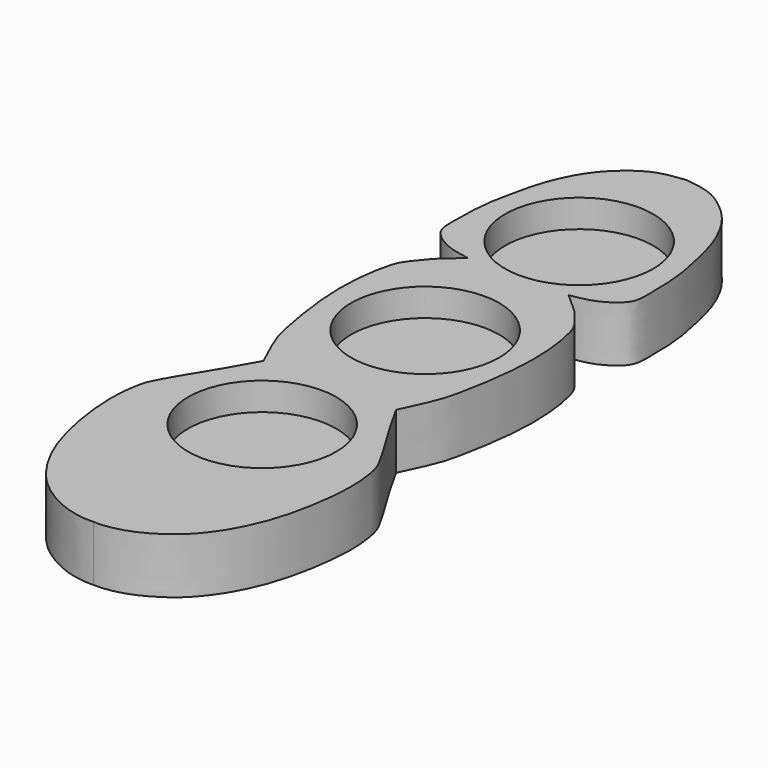
from build123d import *

# Parameters (mm, degrees)
F1_DEPTH = 15
F2_R     = 20
F3_DEPTH = 7.5


with BuildPart() as f1:
    # F0 (on Top) → F1 (new body)
    with BuildSketch(Plane.XY):
        with BuildLine():
            add(Edge.make_bspline(
                [(0.006547, 110.3549139831), (2.7189159203, 110.0636084543), (7.5866832137, 109.3743061288), (13.1230351166, 105.4049872417), (18.3157342366, 100.3712789422), (22.7406790932, 91.3582641355), (24.2958740808, 84.1266670597), (25.623611025, 78.5602826683), (26.2493630258, 73.7108721554), (26.4406539075, 69.7828552348), (26.4671170358, 67.3600836291), (26.5386249869, 63.8041069174), (26.3450142748, 60.9965214622), (25.4831712881, 59.1700962233), (24.1583131698, 57.9625108348), (23.4025155596, 57.1980799908), (20.6054051171, 55.5089384491), (17.6782663486, 54.4551431201), (15.3836447251, 54.1449643348), (13.62931089, 53.7687837163)],
                knots=[0, 0, 0, 0, 0.0790605851, 0.1520423374, 0.2291112298, 0.3195408151, 0.3980199808, 0.4660930715, 0.5297409297, 0.5857113077, 0.6305184108, 0.6843887988, 0.7326754222, 0.7729048702, 0.8100055977, 0.8399442793, 0.8906587539, 0.9410965692, 1, 1, 1, 1], degree=3))
            add(Edge.make_bspline(
                [(0.006547, 110.3549139831), (-2.7058219203, 110.0636084543), (-7.5735892137, 109.3743061288), (-13.1099411166, 105.4049872417), (-18.3026402366, 100.3712789422), (-22.7275850932, 91.3582641355), (-24.2827800808, 84.1266670597), (-25.610517025, 78.5602826683), (-26.2362690258, 73.7108721554), (-26.4275599075, 69.7828552348), (-26.4540230358, 67.3600836291), (-26.5255309869, 63.8041069174), (-26.3319202748, 60.9965214622), (-25.4700772881, 59.1700962233), (-24.1452191698, 57.9625108348), (-23.3894215596, 57.1980799908), (-20.5923111171, 55.5089384491), (-17.6651723486, 54.4551431201), (-15.3705507251, 54.1449643348), (-13.61621689, 53.7687837163)],
                knots=[0, 0, 0, 0, 0.0790605851, 0.1520423374, 0.2291112298, 0.3195408151, 0.3980199808, 0.4660930715, 0.5297409297, 0.5857113077, 0.6305184108, 0.6843887988, 0.7326754222, 0.7729048702, 0.8100055977, 0.8399442793, 0.8906587539, 0.9410965692, 1, 1, 1, 1], degree=3))
            add(Edge.make_bspline(
                [(-13.61621689, 53.7687837163), (-16.0067859756, 51.6768505247), (-18.3352149795, 49.6972559398), (-19.7401679427, 48.1348734064), (-21.6247948454, 45.8955475897), (-22.8780706085, 44.0862186533), (-24.592585031, 41.6361246537), (-27.6836157214, 24.6914793994), (-23.0211294601, 2.0037650923), (-22.2116093413, -0.0066052262), (-20.8921524683, -3.4024789624), (-19.904761128, -5.4680505948), (-18.014359093, -9.5773408191), (-17.9141440225, -9.7936586092), (-17.8863481269, -9.8535586014)],
                knots=[0, 0, 0, 0, 0.1011387266, 0.1562211394, 0.2234756729, 0.2813987685, 0.3439685343, 0.5106273357, 0.7011779896, 0.7596946888, 0.8307634585, 0.8980152194, 0.9797813053, 1, 1, 1, 1], degree=3))
            add(Edge.make_bspline(
                [(-17.8863481269, -9.8535586014), (-22.442902945, -18.4019947589), (-30.4779179892, -30.307186461), (-31.7564669832, -35.2525887902), (-32.514366239, -40.9699670365), (-32.3485139182, -45.8604054448), (-32.0266772268, -50.2074603044), (-30.8047248903, -58.3012556875), (-28.3391702135, -67.1519261727), (-24.5532959231, -74.7846484408), (-20.8315959049, -79.7210389817), (-17.4857318024, -83.2212448144), (-10.3269423039, -88.1252943089), (-3.5355116574, -89.7994986443), (-0.1886145968, -89.6568112574), (0.006547, -89.6450860169)],
                knots=[0, 0, 0, 0, 0.1358489134, 0.1960527181, 0.2603121306, 0.3209067514, 0.3778416613, 0.4558233353, 0.5404999873, 0.6207917908, 0.687907734, 0.7476873814, 0.827848189, 0.9141886977, 0.9195571282, 0.9195571282, 0.9195571282, 0.9195571282], degree=3))
            add(Edge.make_bspline(
                [(17.8994421269, -9.8535586014), (22.455996945, -18.4019947589), (30.4910119892, -30.307186461), (31.7695609832, -35.2525887902), (32.527460239, -40.9699670365), (32.3616079182, -45.8604054448), (32.0397712268, -50.2074603044), (30.8178188903, -58.3012556875), (28.3522642135, -67.1519261727), (24.5663899231, -74.7846484408), (20.8446899049, -79.7210389817), (17.4988258024, -83.2212448144), (10.3400363039, -88.1252943089), (3.5486056574, -89.7994986443), (0.2017085968, -89.6568112574), (0.006547, -89.6450860169)],
                knots=[0, 0, 0, 0, 0.1358489134, 0.1960527181, 0.2603121306, 0.3209067514, 0.3778416613, 0.4558233353, 0.5404999873, 0.6207917908, 0.687907734, 0.7476873814, 0.827848189, 0.9141886977, 0.9195571282, 0.9195571282, 0.9195571282, 0.9195571282], degree=3))
            add(Edge.make_bspline(
                [(13.62931089, 53.7687837163), (16.0198799756, 51.6768505247), (18.3483089795, 49.6972559398), (19.7532619427, 48.1348734064), (21.6378888454, 45.8955475897), (22.8911646085, 44.0862186533), (24.605679031, 41.6361246537), (27.6967097214, 24.6914793994), (23.0342234601, 2.0037650923), (22.2247033413, -0.0066052262), (20.9052464683, -3.4024789624), (19.917855128, -5.4680505948), (18.027453093, -9.5773408191), (17.9272380225, -9.7936586092), (17.8994421269, -9.8535586014)],
                knots=[0, 0, 0, 0, 0.1011387266, 0.1562211394, 0.2234756729, 0.2813987685, 0.3439685343, 0.5106273357, 0.7011779896, 0.7596946888, 0.8307634585, 0.8980152194, 0.9797813053, 1, 1, 1, 1], degree=3))
        make_face()
    extrude(amount=F1_DEPTH)

    # F2 (on face) → F3 (cut)
    with BuildSketch(Plane.XY.offset(15)):
        with Locations((0.006547, -32.6699662969)):
            Circle(F2_R)
        with Locations((0.006547, 22.3300337031)):
            Circle(F2_R)
        with Locations((0.006547, 74.3300337031)):
            Circle(F2_R)
    extrude(amount=-F3_DEPTH, mode=Mode.SUBTRACT)


solid = f1.part
